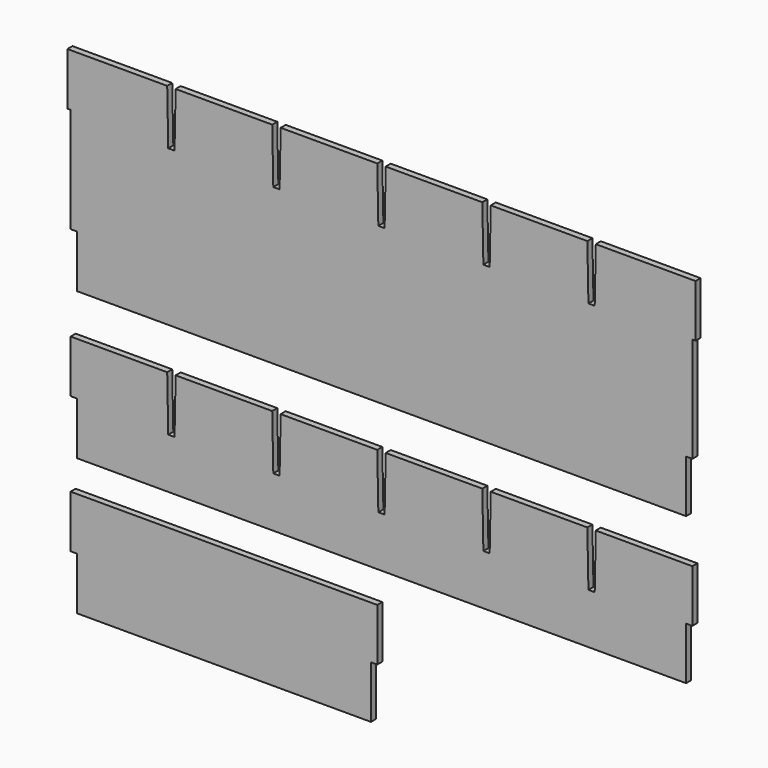
from build123d import *

# Parameters (mm, degrees)
F0_W     = 1.5
F0_H     = 25
F0_W_2   = 3
F1_DEPTH = 3
F2_W     = 3
F2_H     = 25
F3_DEPTH = 3
F4_W     = 3
F4_H     = 25
F5_DEPTH = 3


with BuildPart() as f1:
    # F0 (on Front) → F1 (new body)
    with BuildSketch(Plane.XZ):
        Polygon((10, 35), (10, 10), (300, 10), (300, 35), (300, 60), (300, 110), (257, 110), (256.5, 84), (253.5, 84), (253, 110), (207, 110), (206.5, 84), (203.5, 84), (203, 110), (157, 110), (156.5, 84), (153.5, 84), (153, 110), (107, 110), (106.5, 84), (103.5, 84), (103, 110), (57, 110), (56.5, 84), (53.5, 84), (53, 110), (10, 110), (10, 60), align=None)
        Polygon((7, 60), (10, 60), (10, 110), (7, 110), (7, 85), align=None)
        with Locations((6.25, 97.5)):
            Rectangle(F0_W, F0_H)
        with Locations((8.5, 47.5)):
            Rectangle(F0_W_2, F0_H)
        with Locations((301.5, 47.5)):
            Rectangle(F0_W_2, F0_H)
        Polygon((300, 110), (300, 60), (303, 60), (303, 85), (303, 110), align=None)
        with Locations((303.75, 97.5)):
            Rectangle(F0_W, F0_H)
    extrude(amount=F1_DEPTH)


with BuildPart() as f3:
    # F2 (on Front) → F3 (new body)
    with BuildSketch(Plane.XZ):
        Polygon((10, -35), (10, -60), (300, -60), (300, -35), (300, -10), (257, -10), (256.5, -36), (253.5, -36), (253, -10), (207, -10), (206.5, -36), (203.5, -36), (203, -10), (157, -10), (156.5, -36), (153.5, -36), (153, -10), (107, -10), (106.5, -36), (103.5, -36), (103, -10), (57, -10), (56.5, -36), (53.5, -36), (53, -10), (10, -10), align=None)
        with Locations((8.5, -22.5)):
            Rectangle(F2_W, F2_H)
        with Locations((301.5, -22.5)):
            Rectangle(F2_W, F2_H)
    extrude(amount=F3_DEPTH)


with BuildPart() as f5:
    # F4 (on Front) → F5 (new body)
    with BuildSketch(Plane.XZ):
        Polygon((10, -100), (10, -125), (150, -125), (150, -100), (150, -75), (10, -75), align=None)
        with Locations((151.5, -87.5)):
            Rectangle(F4_W, F4_H)
        with Locations((8.5, -87.5)):
            Rectangle(F4_W, F4_H)
    extrude(amount=F5_DEPTH)


solid = Compound([f1.part, f3.part, f5.part])
